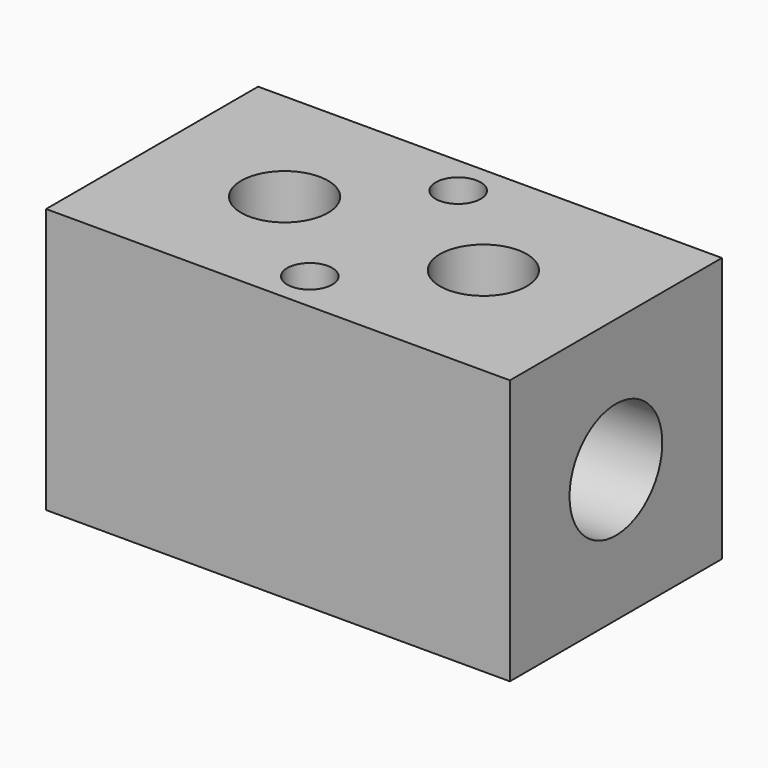
from build123d import *

# Parameters (mm, degrees)
F0_W     = 44.45
F0_H     = 25.4
F1_DEPTH = 12.7
F4_D     = 8.3312
F4_DEPTH = 12.7
F4_TIP   = 2.5029449946
F5_D     = 8.3312
F5_DEPTH = 12.7
F5_TIP   = 2.5029449946
F6_D     = 4.318
F6_DEPTH = 9.525
F6_TIP   = 1.2972580765
F7_D     = 11.1125


with BuildPart() as f1:
    # F0 (on Front) → F1 (new body, symmetric)
    with BuildSketch(Plane.XZ):
        Rectangle(F0_W, F0_H)
    extrude(amount=F1_DEPTH, both=True)

    # F4
    with Locations(Plane.XY.offset(12.7)):
        with Locations((-9.525, 0)):
            Hole(F4_D / 2, depth=F4_DEPTH)
            with Locations((0, 0, -(F4_DEPTH + F4_TIP / 2))):  # 118° drill point
                Cone(0, F4_D / 2, F4_TIP, mode=Mode.SUBTRACT)

    # F5
    with Locations(Plane.XY.offset(12.7)):
        with Locations((9.525, 0)):
            Hole(F5_D / 2, depth=F5_DEPTH)
            with Locations((0, 0, -(F5_DEPTH + F5_TIP / 2))):  # 118° drill point
                Cone(0, F5_D / 2, F5_TIP, mode=Mode.SUBTRACT)

    # F6
    with Locations(Plane.XY.offset(12.7)):
        with Locations((0, 8.89), (0, -8.89)):
            Hole(F6_D / 2, depth=F6_DEPTH)
            with Locations((0, 0, -(F6_DEPTH + F6_TIP / 2))):  # 118° drill point
                Cone(0, F6_D / 2, F6_TIP, mode=Mode.SUBTRACT)

    # F7 (through all)
    with Locations(Plane.YZ.offset(22.225)):
        with Locations((0, 0)):
            Hole(F7_D / 2)


solid = f1.part
